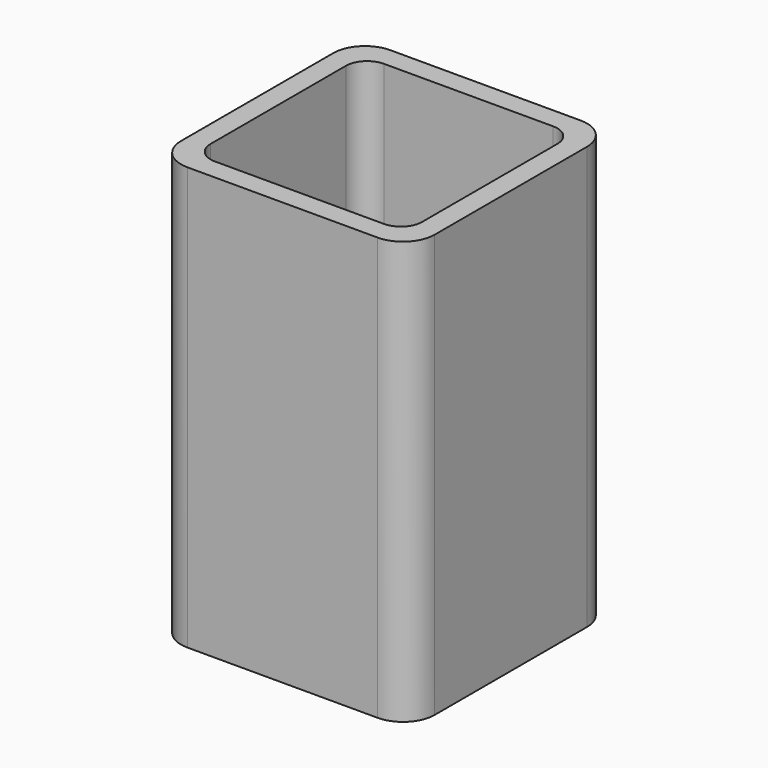
from build123d import *

# Parameters (mm, degrees)
EXTRUDE_DEPTH = 50


with BuildPart() as part:
    # Sketch → Extrude (new body)
    with BuildSketch(Plane.XY):
        with BuildLine():
            Line((-11.25, 15), (11.25, 15))
            ThreePointArc((15, 11.25), (13.90165, 13.90165), (11.25, 15))
            Line((15, 11.25), (15, -11.25))
            ThreePointArc((11.25, -15), (13.90165, -13.90165), (15, -11.25))
            Line((11.25, -15), (-11.25, -15))
            ThreePointArc((-15, -11.25), (-13.90165, -13.90165), (-11.25, -15))
            Line((-15, -11.25), (-15, 11.25))
            ThreePointArc((-11.25, 15), (-13.90165, 13.90165), (-15, 11.25))
        make_face()
        with BuildLine():
            Line((-10, 12.5), (10, 12.5))
            ThreePointArc((12.5, 10), (11.767767, 11.767767), (10, 12.5))
            Line((12.5, 10), (12.5, -10))
            ThreePointArc((10, -12.5), (11.767767, -11.767767), (12.5, -10))
            Line((10, -12.5), (-10, -12.5))
            ThreePointArc((-12.5, -10), (-11.767767, -11.767767), (-10, -12.5))
            Line((-12.5, -10), (-12.5, 10))
            ThreePointArc((-10, 12.5), (-11.767767, 11.767767), (-12.5, 10))
        make_face(mode=Mode.SUBTRACT)
    extrude(amount=EXTRUDE_DEPTH)


solid = part.part
